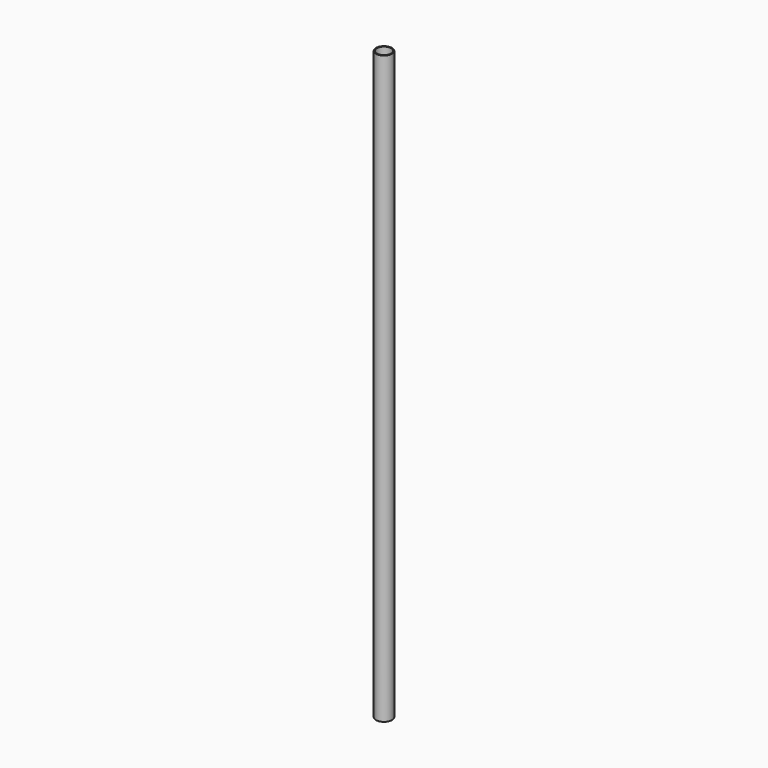
from build123d import *


with BuildPart() as f1:
    # F0 (on Front) → F1 (revolve)
    with BuildSketch(Plane.XZ):
        with BuildLine():
            Line((-1.5494, -37.074817), (-1.5494, 89.876456))
            ThreePointArc((-1.5494, 89.876456), (-1.556536, 89.893683), (-1.573763, 89.900819))
            Line((-1.573763, 89.900819), (-1.718653, 89.900819))
            ThreePointArc((-1.718653, 89.900819), (-1.73588, 89.893683), (-1.743016, 89.876456))
            Line((-1.743016, 89.876456), (-1.743016, -37.074817))
            ThreePointArc((-1.743016, -37.074817), (-1.73588, -37.092045), (-1.718653, -37.099181))
            Line((-1.718653, -37.099181), (-1.573763, -37.099181))
            ThreePointArc((-1.573763, -37.099181), (-1.556536, -37.092045), (-1.5494, -37.074817))
        make_face()
    revolve(axis=Axis((0, 0, 26.400819), (0, 0, -1)))


solid = f1.part
